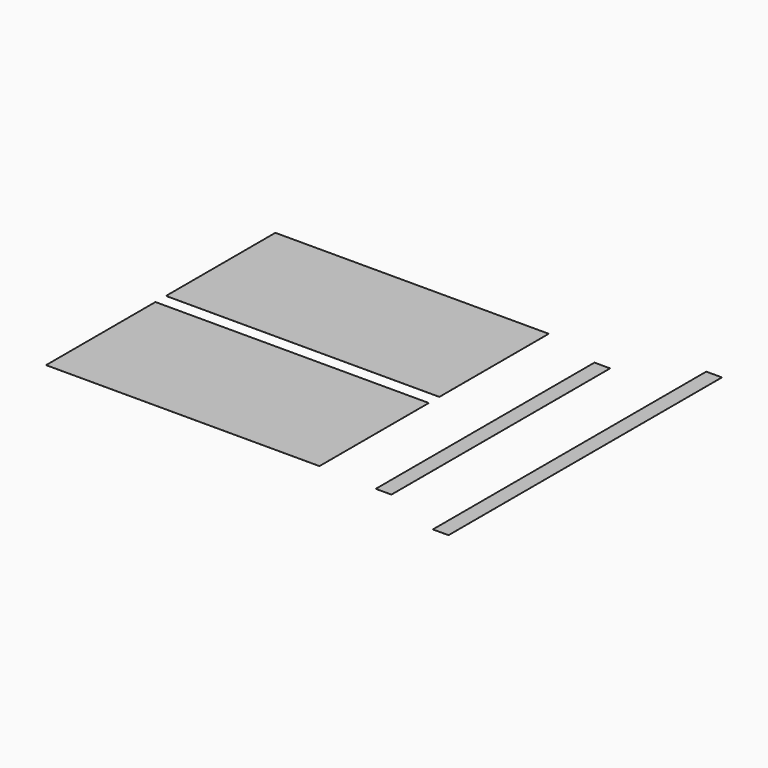
from build123d import *

# Parameters (mm, degrees)
F0_W     = 615.95
F0_H     = 958.85
F0_W_2   = 927.1
F0_H_2   = 901.7
F0_W_3   = 933.45
F0_W_4   = 139.7
F0_H_3   = 565.15
F0_H_4   = 177.8
F0_H_5   = 444.5
F0_H_6   = 933.45
F0_H_7   = 292.1
F1_DEPTH = 0.254


with BuildPart() as f1:
    # F0 (on Top) → F1 (new body)
    with BuildSketch(Plane.XY):
        Polygon((48.620433, 1274.898779), (-2389.779567, 1274.898779), (-2389.779567, 1014.548779), (-1773.829567, 1014.548779), (-1157.879567, 1014.548779), (-1157.879567, 55.698779), (-878.479567, 55.698779), (-878.479567, 1014.548779), (48.620433, 1014.548779), align=None)
        with Locations((-2081.804567, 535.123779)):
            Rectangle(F0_W, F0_H)
        with Locations((-414.929567, 535.123779)):
            Rectangle(F0_W_2, F0_H)
        with Locations((-1465.854567, 535.123779)):
            Rectangle(F0_W, F0_H)
        Polygon((48.620432, -62.079306), (-2389.779568, -62.079306), (-2389.779568, -379.579306), (-1773.829568, -379.579306), (-1157.879568, -379.579306), (-1157.879568, -1281.279306), (-884.829568, -1281.279306), (-884.829568, -379.579306), (48.620432, -379.579306), align=None)
        with Locations((-2081.804568, -830.429306)):
            Rectangle(F0_W, F0_H_2)
        with Locations((-418.104568, -830.429306)):
            Rectangle(F0_W_3, F0_H_2)
        with Locations((-1465.854568, -830.429306)):
            Rectangle(F0_W, F0_H_2)
        with Locations((638.592748, 851.948481)):
            Rectangle(F0_W_4, F0_H_3)
        with Locations((638.592748, 286.798481)):
            Rectangle(F0_W_4, F0_H_3)
        with Locations((638.592748, -278.351519)):
            Rectangle(F0_W_4, F0_H_3)
        with Locations((638.592748, -843.501519)):
            Rectangle(F0_W_4, F0_H_3)
        with Locations((638.592748, -1214.976519)):
            Rectangle(F0_W_4, F0_H_4)
        with Locations((1331.729921, 1292.409166)):
            Rectangle(F0_W_4, F0_H_5)
        with Locations((1331.729921, 847.909166)):
            Rectangle(F0_W_4, F0_H_5)
        with Locations((1331.729921, 158.934166)):
            Rectangle(F0_W_4, F0_H_6)
        with Locations((1331.729921, -774.515834)):
            Rectangle(F0_W_4, F0_H_6)
        with Locations((1331.729921, -1387.290834)):
            Rectangle(F0_W_4, F0_H_7)
    extrude(amount=F1_DEPTH)


solid = f1.part
